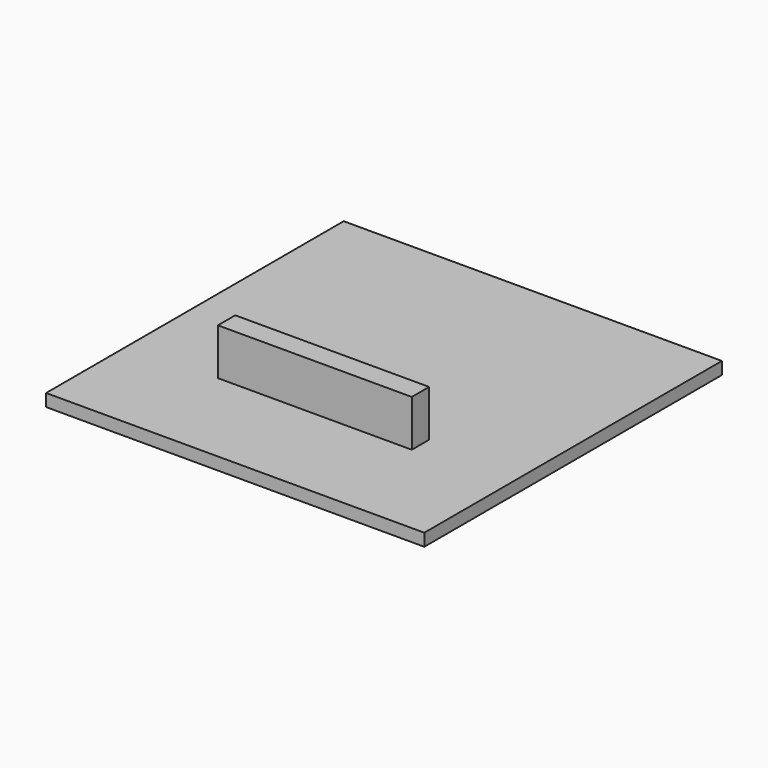
from build123d import *

# Parameters (mm, degrees)
F0_W      = 762
F0_H      = 762
F1_DEPTH  = 25.4
F1_FACE_W = 762
F1_FACE_H = 25.4
F2_DEPTH  = 12.7
F4_W      = 397.13651
F4_H      = 44.45
F5_DEPTH  = 95.25


with BuildPart() as f1:
    # F0 (on Top) → F1 (new body)
    with BuildSketch(Plane.XY):
        Rectangle(F0_W, F0_H)
    extrude(amount=F1_DEPTH)

    # F1_face (on face) → F2 (join)
    with BuildSketch(Plane(origin=(381, 0, 12.7), x_dir=(0, 1, 0), z_dir=(1, 0, 0))):
        Rectangle(F1_FACE_W, F1_FACE_H)
    extrude(amount=F2_DEPTH)

    # F4 (on face) → F5 (join)
    with BuildSketch(Plane.XY.offset(25.4)):
        with Locations((0, -146.924108)):
            Rectangle(F4_W, F4_H)
    extrude(amount=F5_DEPTH)


solid = f1.part
